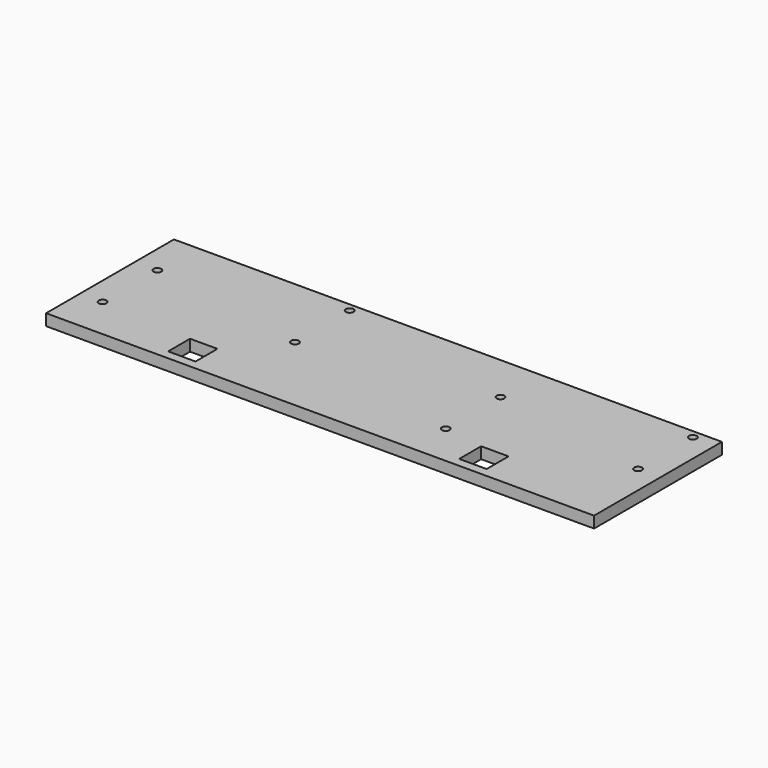
from build123d import *

# Parameters (mm, degrees)
F0_W     = 304.8
F0_H     = 88.9
F1_DEPTH = 6.35
F2_W     = 15.24
F2_H     = 15.24
F3_DEPTH = 25.4
F5_D     = 4.318


with BuildPart() as f1:
    # F0 (on Top) → F1 (new body)
    with BuildSketch(Plane.XY):
        Rectangle(F0_W, F0_H)
    extrude(amount=-F1_DEPTH)

    # F2 (on face) → F3 (cut)
    with BuildSketch(Plane.XY):
        with Locations((-80.9625, -31.75)):
            Rectangle(F2_W, F2_H)
        with Locations((80.9625, -31.75)):
            Rectangle(F2_W, F2_H)
    extrude(amount=-F3_DEPTH, mode=Mode.SUBTRACT)

    # F5 (through all)
    with Locations(Plane.XY):
        with Locations((-50.9905, 39.878), (-139.8905, 17.272), (-50.9905, 1.778), (-139.8905, -20.828), (139.8905, 1.778), (139.8905, 39.878), (50.9905, 17.272), (50.9905, -20.828)):
            Hole(F5_D / 2)


solid = f1.part
